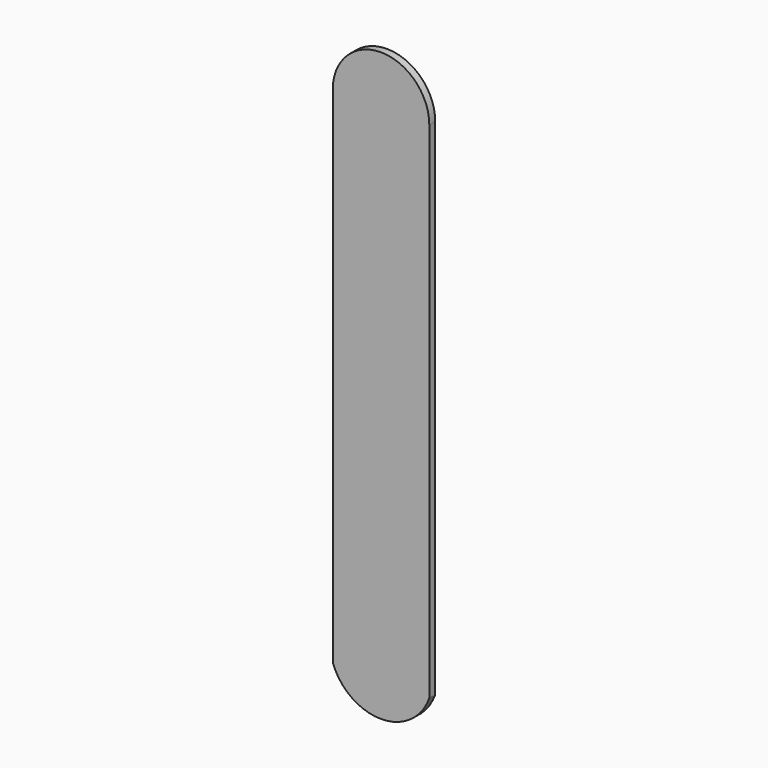
from build123d import *

# Parameters (mm, degrees)
F1_DEPTH = 1.9558


with BuildPart() as f1:
    # F0 (on Front) → F1 (new body)
    with BuildSketch(Plane.XZ):
        with BuildLine():
            Line((-12.7, 69.913052), (-12.7, 0))
            Line((-12.7, 0), (-12.7, -62.85952))
            ThreePointArc((-12.7, -62.85952), (0, -71.84143), (12.7, -62.85952))
            Line((12.7, -62.85952), (12.7, 0))
            Line((12.7, 0), (12.7, 69.913052))
            ThreePointArc((12.7, 69.913052), (0, 82.613052), (-12.7, 69.913052))
        make_face()
        with BuildLine():
            Line((-12.7, 69.913052), (-12.7, 0))
            Line((-12.7, 0), (-12.7, -62.85952))
            ThreePointArc((-12.7, -62.85952), (0, -71.84143), (12.7, -62.85952))
            Line((12.7, -62.85952), (12.7, 0))
            Line((12.7, 0), (12.7, 69.913052))
            ThreePointArc((12.7, 69.913052), (0, 82.613052), (-12.7, 69.913052))
        make_face()
    extrude(amount=F1_DEPTH)


solid = f1.part
